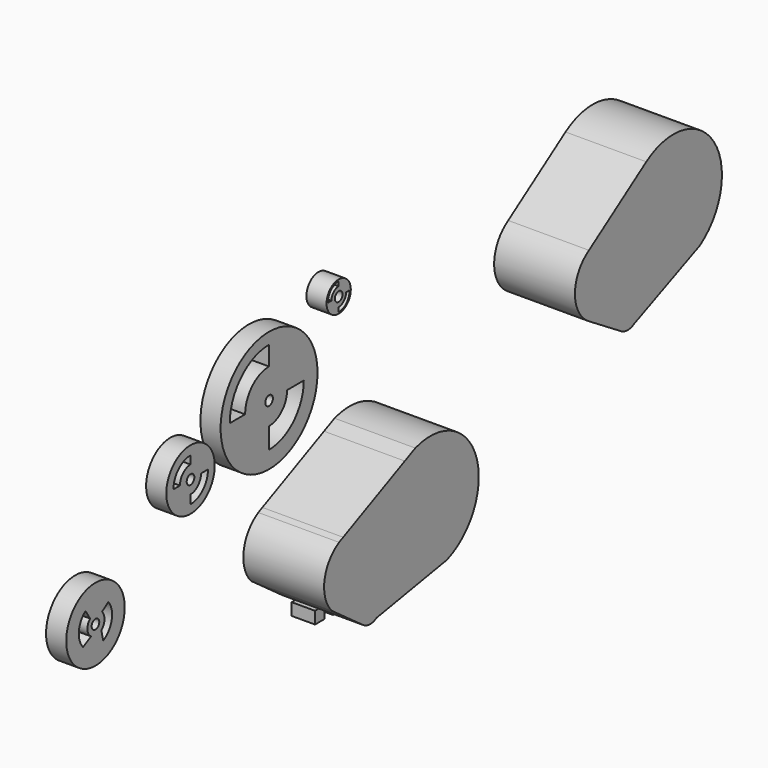
from build123d import *

# Parameters (mm, degrees)
F1_W     = 3.81
F1_H     = 3.81
F2_DEPTH = 7.35000054
F0_R     = 19.05
F0_R_2   = 1.499997
F3_DEPTH = 6.35
F0_R_3   = 4.7625
F0_R_4   = 9.525
F0_R_5   = 11.5
F0_R_6   = 1.4986
F4_DEPTH = 25.4
F5_DEPTH = 25.4


with BuildPart() as f2:
    # F1 (on Right) → F2 (new body)
    with BuildSketch(Plane.YZ):
        with Locations((-44.7605111825, -18.301277816)):
            Rectangle(F1_W, F1_H)
    extrude(amount=F2_DEPTH)


with BuildPart() as f2b:
    # F1 (on Right) → F2, piece 2 (new body)
    with BuildSketch(Plane.YZ):
        with Locations((-37.6643843636, -18.539402816)):
            Rectangle(F1_W, F1_H)
    extrude(amount=F2_DEPTH)


with BuildPart() as f3:
    # F0 (on Right) → F3 (new body)
    with BuildSketch(Plane.YZ):
        with Locations((-63.4714198452, 48.3321648699)):
            Circle(F0_R)
        with BuildLine():
            Line((-63.4714198452, 34.6891544759), (-63.4714198452, 41.2581190467))
            ThreePointArc((-63.4714198452, 41.2581190467), (-58.4693140731, 43.3300590979), (-56.3973740219, 48.3321648699))
            Line((-56.3973740219, 48.3321648699), (-49.8284094511, 48.3321648699))
            ThreePointArc((-49.8284094511, 48.3321648699), (-53.8243546798, 38.6850997045), (-63.4714198452, 34.6891544759))
        make_face(mode=Mode.SUBTRACT)
        with Locations((-63.4714198452, 48.3321648699)):
            Circle(F0_R_2, mode=Mode.SUBTRACT)
        with BuildLine():
            ThreePointArc((-63.4714198452, 57.7441796185), (-70.1267192985, 54.9874643232), (-72.8834345937, 48.3321648699))
            Line((-72.8834345937, 48.3321648699), (-78.9268836379, 48.3321648699))
            ThreePointArc((-78.9268836379, 48.3321648699), (-74.4000830994, 59.2608281242), (-63.4714198452, 63.7876286627))
            Line((-63.4714198452, 63.7876286627), (-63.4714198452, 57.7441796185))
        make_face(mode=Mode.SUBTRACT)
    extrude(amount=F3_DEPTH)


with BuildPart() as f3b:
    # F0 (on Right) → F3, piece 2 (new body)
    with BuildSketch(Plane.YZ):
        with Locations((-36.1051460727, 65.9862762386)):
            Circle(F0_R_3)
        with BuildLine():
            Line((-36.1051460727, 61.6634078324), (-36.1051460727, 63.0929395556))
            ThreePointArc((-36.1051460727, 63.0929395556), (-34.0592480839, 63.9403782498), (-33.2118093897, 65.9862762386))
            Line((-33.2118093897, 65.9862762386), (-31.7822776665, 65.9862762386))
            ThreePointArc((-31.7822776665, 65.9862762386), (-33.0484165085, 62.9295466744), (-36.1051460727, 61.6634078324))
        make_face(mode=Mode.SUBTRACT)
        with Locations((-36.1051460727, 65.9862762386)):
            Circle(F0_R_2, mode=Mode.SUBTRACT)
        with BuildLine():
            ThreePointArc((-36.1051460727, 68.8452638756), (-38.1267556181, 68.0078857841), (-38.9641337097, 65.9862762386))
            Line((-38.9641337097, 65.9862762386), (-40.3936691582, 65.9862762386))
            ThreePointArc((-40.3936691582, 65.9862762386), (-39.1375898277, 69.0187199937), (-36.1051460727, 70.2747993241))
            Line((-36.1051460727, 70.2747993241), (-36.1051460727, 68.8452638756))
        make_face(mode=Mode.SUBTRACT)
    extrude(amount=F3_DEPTH)


with BuildPart() as f3c:
    # F0 (on Right) → F3, piece 3 (new body)
    with BuildSketch(Plane.YZ):
        with Locations((-94.3511191739, 39.0088330027)):
            Circle(F0_R_4)
        with BuildLine():
            ThreePointArc((-87.4733247774, 39.0088330027), (-89.4877841165, 34.1454979453), (-94.3511191739, 32.1310386062))
            Line((-94.3511191739, 32.1310386062), (-94.3511191739, 34.8868891597))
            ThreePointArc((-94.3511191739, 34.8868891597), (-91.4364647309, 36.0941785596), (-90.2291753309, 39.0088330027))
            Line((-90.2291753309, 39.0088330027), (-87.4733247774, 39.0088330027))
        make_face(mode=Mode.SUBTRACT)
        with Locations((-94.3511191739, 39.0088330027)):
            Circle(F0_R_2, mode=Mode.SUBTRACT)
        with BuildLine():
            Line((-98.5046252608, 39.0088330027), (-101.063631475, 39.0088330027))
            ThreePointArc((-101.063631475, 39.0088330027), (-99.0975821408, 43.7552959696), (-94.3511191739, 45.7213453037))
            Line((-94.3511191739, 45.7213453037), (-94.3511191739, 43.1623390896))
            ThreePointArc((-94.3511191739, 43.1623390896), (-97.2880914937, 41.9458053224), (-98.5046252608, 39.0088330027))
        make_face(mode=Mode.SUBTRACT)
    extrude(amount=F3_DEPTH)


with BuildPart() as f3d:
    # F0 (on Right) → F3, piece 4 (new body)
    with BuildSketch(Plane.YZ):
        with Locations((-131.7194551229, 14.1350999475)):
            Circle(F0_R_5)
        with BuildLine():
            ThreePointArc((-126.6475162499, 18.2496783274), (-125.3196537335, 12.8324636385), (-128.6594122648, 8.3653116599))
            Line((-128.6594122648, 8.3653116599), (-129.4073515506, 11.4570217448))
            ThreePointArc((-129.4073515506, 11.4570217448), (-128.1867632167, 13.9401289647), (-129.1266828775, 16.5424756706))
            Line((-129.1266828775, 16.5424756706), (-126.6475162499, 18.2496783274))
        make_face(mode=Mode.SUBTRACT)
        with BuildLine():
            Line((-133.4368059918, 11.4570217448), (-136.6029530764, 9.7671113908))
            ThreePointArc((-136.6029530764, 9.7671113908), (-138.2389152344, 14.7866489839), (-135.6419347373, 19.3831500584))
            Line((-135.6419347373, 19.3831500584), (-133.7993443012, 16.5424756706))
            ThreePointArc((-133.7993443012, 16.5424756706), (-134.8928158654, 13.9088733695), (-133.4368059918, 11.4570217448))
        make_face(mode=Mode.SUBTRACT)
        with Locations((-131.7194551229, 14.1350999475)):
            Circle(F0_R_6, mode=Mode.SUBTRACT)
    extrude(amount=F3_DEPTH)


with BuildPart() as f4:
    # F0 (on Right) → F4 (new body)
    with BuildSketch(Plane.YZ):
        with BuildLine():
            Line((-44.9844066674, -13.1433418189), (-24.0138664913, -9.4980324265))
            Line((-24.0138664913, -9.4980324265), (-17.3682536164, -8.3428254158))
            ThreePointArc((-17.3682536164, -8.3428254158), (-5.8956209633, 15.770212574), (-29.8034821706, 27.6645000087))
            Line((-29.8034821706, 27.6645000087), (-33.9266775087, 25.7506994656))
            Line((-33.9266775087, 25.7506994656), (-58.1610789035, 14.502187875))
            Line((-58.1610789035, 14.502187875), (-59.7815049134, 13.7500595076))
            ThreePointArc((-59.7815049134, 13.7500595076), (-65.502067365, 5.546642504), (-62.6399811027, -4.0361205383))
            Line((-62.6399811027, -4.0361205383), (-58.8765542048, -6.7659430233))
            Line((-58.8765542048, -6.7659430233), (-50.3222974662, -12.9708203918))
            ThreePointArc((-50.3222974662, -12.9708203918), (-47.679810488, -13.8757165934), (-44.9844066674, -13.1433418189))
        make_face()
    extrude(amount=F4_DEPTH)


with BuildPart() as f5:
    # F0 (on Right) → F5 (new body)
    with BuildSketch(Plane.YZ):
        with BuildLine():
            Line((38.4110773648, 35.0562312206), (51.1799276346, 27.0850012639))
            ThreePointArc((51.1799276346, 27.0850012639), (53.7019310165, 26.3624152719), (56.2239343983, 27.0850012639))
            Line((56.2239343983, 27.0850012639), (76.2634365035, 35.7517570543))
            Line((76.2634365035, 35.7517570543), (82.0465136748, 38.2528430243))
            ThreePointArc((82.0465136748, 38.2528430243), (87.5784037852, 64.7673025363), (61.0059292553, 70.0134409982))
            Line((61.0059292553, 70.0134409982), (38.4803215482, 54.6712705412))
            ThreePointArc((38.4803215482, 54.6712705412), (32.9565094667, 44.8831285876), (38.4110773648, 35.0562312206))
        make_face()
    extrude(amount=F5_DEPTH)


solid = Compound([f2.part, f2b.part, f3.part, f3b.part, f3c.part, f3d.part, f4.part, f5.part])
